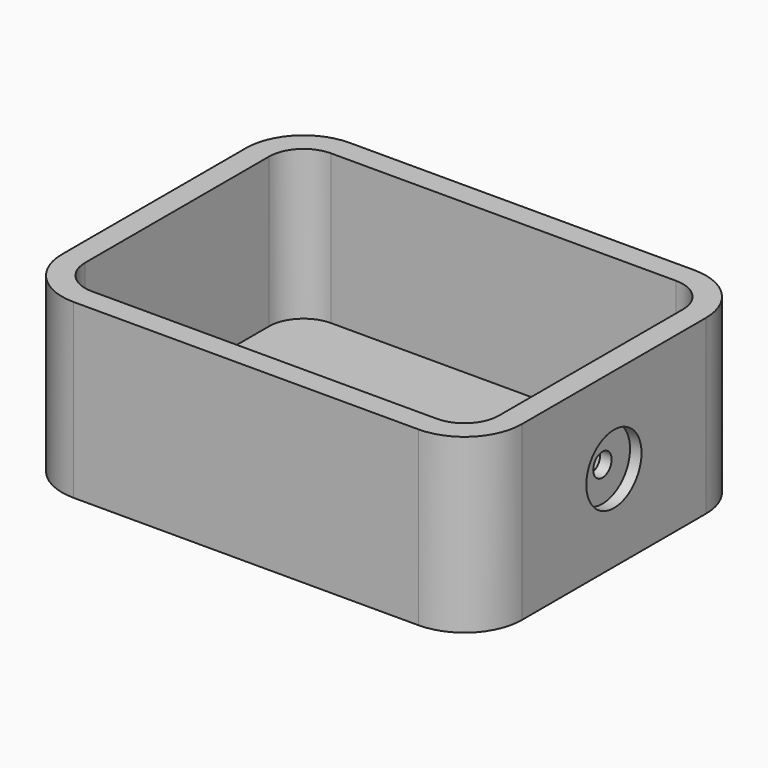
from build123d import *

# Parameters (mm, degrees)
F0_W           = 40
F0_H           = 30
F1_DEPTH       = 15
F2_T           = -2
F3_R           = 5
F4_R           = 3
F6_D           = 2
F6_DEPTH       = 12
F6_CBORE_D     = 6
F6_CBORE_DEPTH = 1
F6_TIP         = 0.600860619


with BuildPart() as f1:
    # F0 (on Top) → F1 (new body)
    with BuildSketch(Plane.XY):
        Rectangle(F0_W, F0_H)
    extrude(amount=F1_DEPTH)

    # F2
    f2_openings = [f1.faces().sort_by_distance(p)[0] for p in [
        (0, 0, 15),
    ]]
    offset(amount=F2_T, openings=f2_openings)

    # F3
    f3_edges = [f1.edges().sort_by_distance(p)[0] for p in [
        (20, -15, 7.5),
        (20, 15, 7.5),
        (-20, -15, 7.5),
        (-20, 15, 7.5),
    ]]
    fillet(f3_edges, radius=F3_R)

    # F4
    f4_edges = [f1.edges().sort_by_distance(p)[0] for p in [
        (-18, 13, 8.5),
        (-18, -13, 8.5),
        (18, 13, 8.5),
        (18, -13, 8.5),
    ]]
    fillet(f4_edges, radius=F4_R)

    # F6
    with Locations(Plane.YZ.offset(20)):
        with Locations((0, 7.5)):
            CounterBoreHole(F6_D / 2, F6_CBORE_D / 2, F6_CBORE_DEPTH, depth=F6_DEPTH)
            with Locations((0, 0, -(F6_DEPTH + F6_TIP / 2))):  # 118° drill point
                Cone(0, F6_D / 2, F6_TIP, mode=Mode.SUBTRACT)


solid = f1.part
